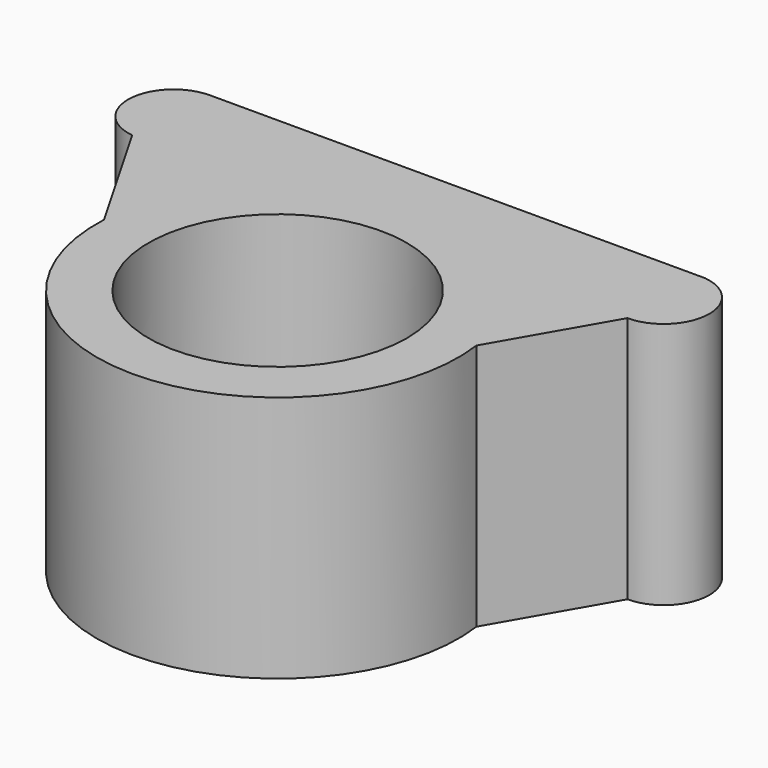
from build123d import *

# Parameters (mm, degrees)
F0_R     = 18.5639958492
F0_R_2   = 13.25
F1_DEPTH = 25.4
F3_DEPTH = 25.4


with BuildPart() as f1:
    # F0 (on Top) → F1 (new body)
    with BuildSketch(Plane.XY):
        Circle(F0_R)
        Circle(F0_R_2, mode=Mode.SUBTRACT)
    extrude(amount=F1_DEPTH)

    # F2 (on Top) → F3 (join)
    with BuildSketch(Plane.XY):
        Polygon((-9.2026721686, 13.7659795582), (-25.9348005056, 13.7659795582), (-18.0250667036, 0), align=None)
        with BuildLine():
            Line((25.4, 23.071060555), (0, 23.071060555))
            Line((0, 23.071060555), (-25.4, 23.071060555))
            ThreePointArc((-25.4, 23.071060555), (-30.0602184481, 18.6709930219), (-25.9348005056, 13.7659795582))
            Line((-25.9348005056, 13.7659795582), (-9.2026721686, 13.7659795582))
            Line((-9.2026721686, 13.7659795582), (7.8336792067, 13.7659795582))
            Line((7.8336792067, 13.7659795582), (24.870030582, 13.7659795582))
            ThreePointArc((24.870030582, 13.7659795582), (29.5301110517, 18.1681980719), (25.4, 23.071060555))
        make_face()
        Polygon((16.9602930546, 0), (24.870030582, 13.7659795582), (7.8336792067, 13.7659795582), align=None)
    extrude(amount=F3_DEPTH)


solid = f1.part
